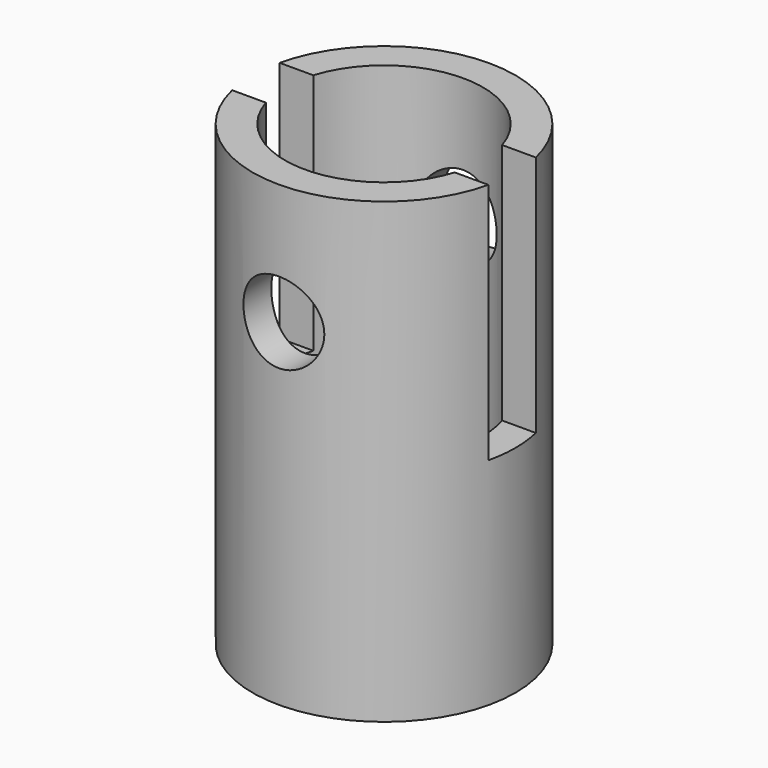
from build123d import *

# Parameters (mm, degrees)
F0_R          = 24.4
F0_R_2        = 18.36585117
F1_DEPTH      = 60
F2_R          = 24.4
F2_R_2        = 18.36585117
F3_DEPTH      = 25
F5_DEPTH      = 24.401
F5_DEPTH_BACK = 24.401
F6_R          = 7.5
F7_DEPTH      = 24.401
F7_DEPTH_BACK = 24.401


with BuildPart() as f1:
    # F0 (on Top) → F1 (new body)
    with BuildSketch(Plane.XY):
        Circle(F0_R)
        Circle(F0_R_2, mode=Mode.SUBTRACT)
    extrude(amount=F1_DEPTH)

    # F2 (on Top) → F3 (join)
    with BuildSketch(Plane.XY):
        Circle(F2_R)
        Circle(F2_R_2, mode=Mode.SUBTRACT)
    extrude(amount=-F3_DEPTH)

    # F4 (on Right) → F5 (cut, two sides)
    with BuildSketch(Plane.YZ) as f5_sk:
        Polygon((5.5, 60), (0, 60), (-5.5, 60), (-5.5, 15), (0, 15), (5.5, 15), align=None)
    extrude(amount=-F5_DEPTH, mode=Mode.SUBTRACT)
    extrude(f5_sk.sketch, amount=F5_DEPTH_BACK, mode=Mode.SUBTRACT)

    # F6 (on Front) → F7 (cut, two sides)
    with BuildSketch(Plane.XZ) as f7_sk:
        with Locations((0, 37.5)):
            Circle(F6_R)
    extrude(amount=-F7_DEPTH, mode=Mode.SUBTRACT)
    extrude(f7_sk.sketch, amount=F7_DEPTH_BACK, mode=Mode.SUBTRACT)


solid = f1.part
